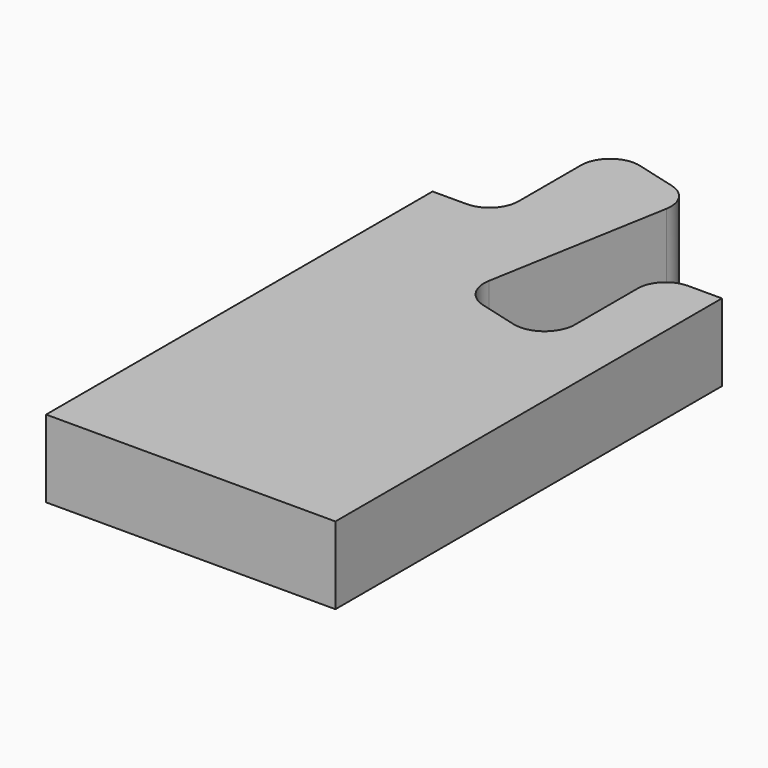
from build123d import *

# Parameters (mm, degrees)
F1_DEPTH = 8


with BuildPart() as f1:
    # F0 (on Top) → F1 (new body)
    with BuildSketch(Plane.XY):
        with BuildLine():
            Line((3.5, 0), (0, 0))
            Line((0, 0), (0, -50))
            Line((0, -50), (29.948091, -50))
            Line((29.948091, -50), (29.948091, 0))
            Line((29.948091, 0), (26.448091, 0))
            ThreePointArc((26.448091, 0), (24.397482, -0.84939), (23.548091, -2.9))
            Line((23.548091, -2.9), (23.548091, -10.99484))
            ThreePointArc((23.548091, -10.99484), (22.31569, -13.493903), (19.582812, -14.037506))
            Line((19.582812, -14.037506), (15.614405, -12.974175))
            ThreePointArc((15.614405, -12.974175), (13.773002, -11.624002), (13.32754, -9.384517))
            Line((13.32754, -9.384517), (16.647826, 9.44576))
            ThreePointArc((16.647826, 9.44576), (16.223577, 11.578604), (14.46986, 12.864482))
            Line((14.46986, 12.864482), (10.276457, 13.988101))
            ThreePointArc((10.276457, 13.988101), (7.673716, 13.470384), (6.5, 11.090324))
            Line((6.5, 11.090324), (6.5, 3))
            ThreePointArc((6.5, 3), (5.62132, 0.87868), (3.5, 0))
        make_face()
    extrude(amount=F1_DEPTH)


solid = f1.part
